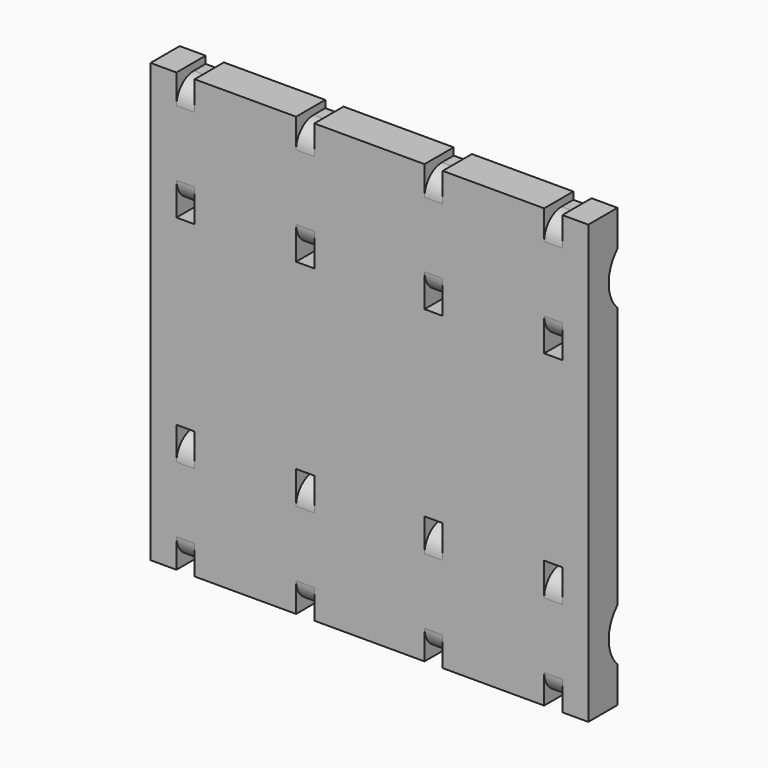
from build123d import *

# Parameters (mm, degrees)
F0_W     = 60
F0_H     = 60
F1_DEPTH = 5
F2_R     = 7.5
F3_DEPTH = 60.001
F4_W     = 1
F4_H     = 60
F4_W_2   = 10
F5_DEPTH = 5
F6_R     = 5
F7_DEPTH = 60.001
F8_W     = 2.5
F8_H     = 1.5
F9_DEPTH = 5.001
F10_R    = 3


with BuildPart() as f1:
    # F0 (on Front) → F1 (new body)
    with BuildSketch(Plane.XZ):
        Rectangle(F0_W, F0_H)
    extrude(amount=F1_DEPTH)

    # F2 (on face) → F3 (cut, through all)
    with BuildSketch(Plane.YZ.offset(30)):
        with Locations((3.5, 21.5)):
            Circle(F2_R)
        with Locations((3.5, -21.5)):
            Circle(F2_R)
    extrude(amount=-F3_DEPTH, mode=Mode.SUBTRACT)

    # F4 (on face) → F5 (join)
    with BuildSketch(Plane(origin=(0, 0, 0), x_dir=(-1, 0, 0), z_dir=(0, 1, 0))):
        with Locations((-29.5, 0)):
            Rectangle(F4_W, F4_H)
        Rectangle(F4_W_2, F4_H)
        with Locations((29.5, 0)):
            Rectangle(F4_W, F4_H)
    extrude(amount=-F5_DEPTH)

    # F6 (on face) → F7 (cut, through all)
    with BuildSketch(Plane.YZ.offset(30)):
        with Locations((3.5, 21.5)):
            Circle(F6_R)
        with Locations((3.5, -21.5)):
            Circle(F6_R)
    extrude(amount=-F7_DEPTH, mode=Mode.SUBTRACT)

    # F8 (on face) → F9 (cut, through all)
    with BuildSketch(Plane(origin=(0, 0, 0), x_dir=(-1, 0, 0), z_dir=(0, 1, 0))):
        with Locations((-25.2, 13.25)):
            Rectangle(F8_W, F8_H)
        with Locations((-8.8, 13.25)):
            Rectangle(F8_W, F8_H)
        with Locations((-8.8, 29.75)):
            Rectangle(F8_W, F8_H)
        with Locations((-25.2, 29.75)):
            Rectangle(F8_W, F8_H)
        with Locations((25.2, 29.75)):
            Rectangle(F8_W, F8_H)
        with Locations((8.8, 13.25)):
            Rectangle(F8_W, F8_H)
        with Locations((8.8, 29.75)):
            Rectangle(F8_W, F8_H)
        with Locations((25.2, 13.25)):
            Rectangle(F8_W, F8_H)
        with Locations((-8.8, -13.25)):
            Rectangle(F8_W, F8_H)
        with Locations((8.8, -29.75)):
            Rectangle(F8_W, F8_H)
        with Locations((25.2, -13.25)):
            Rectangle(F8_W, F8_H)
        with Locations((25.2, -29.75)):
            Rectangle(F8_W, F8_H)
        with Locations((8.8, -13.25)):
            Rectangle(F8_W, F8_H)
        with Locations((-25.2, -13.25)):
            Rectangle(F8_W, F8_H)
        with Locations((-25.2, -29.75)):
            Rectangle(F8_W, F8_H)
        with Locations((-8.8, -29.75)):
            Rectangle(F8_W, F8_H)
    extrude(amount=-F9_DEPTH, mode=Mode.SUBTRACT)

    # F10
    f10_edges = [f1.edges().sort_by_distance(p)[0] for p in [
        (25.2, -5, -29),
        (25.2, -5, -14),
        (8.8, -5, -14),
        (8.8, -5, -29),
        (-8.8, -5, -29),
        (-8.8, -5, -14),
        (-25.2, -5, -14),
        (-25.2, -5, -29),
        (-25.2, -5, 14),
        (-8.8, -5, 14),
        (-8.8, -5, 29),
        (-25.2, -5, 29),
        (8.8, -5, 14),
        (8.8, -5, 29),
        (25.2, -5, 29),
        (25.2, -5, 14),
    ]]
    fillet(f10_edges, radius=F10_R)


solid = f1.part
